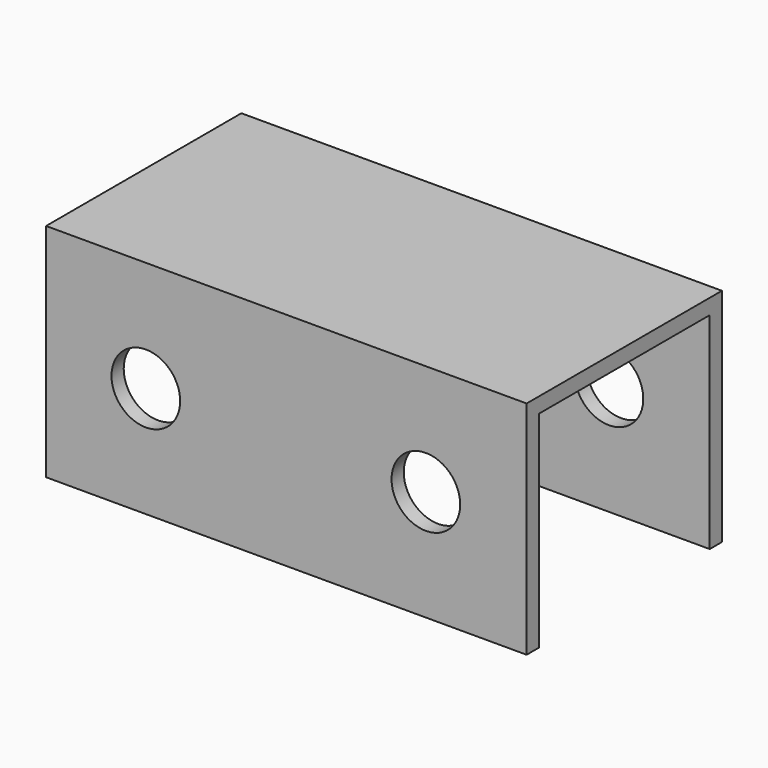
from build123d import *

# Parameters (mm, degrees)
F1_DEPTH = 50
F2_R     = 7.14375
F3_DEPTH = 50.801


with BuildPart() as f1:
    # F0 (on Right) → F1 (new body, symmetric)
    with BuildSketch(Plane.YZ):
        Polygon((0, -42.8625), (0, 0), (44.45, 0), (44.45, -42.8625), (47.625, -42.8625), (47.625, 3.175), (-3.175, 3.175), (-3.175, -42.8625), align=None)
    extrude(amount=F1_DEPTH, both=True)

    # F2 (on face) → F3 (cut, through all)
    with BuildSketch(Plane(origin=(0, 47.625, 0), x_dir=(-1, 0, 0), z_dir=(0, 1, 0))):
        with Locations((-29.0336, -19.84375)):
            Circle(F2_R)
        with Locations((29.2414, -19.84375)):
            Circle(F2_R)
    extrude(amount=-F3_DEPTH, mode=Mode.SUBTRACT)


solid = f1.part
